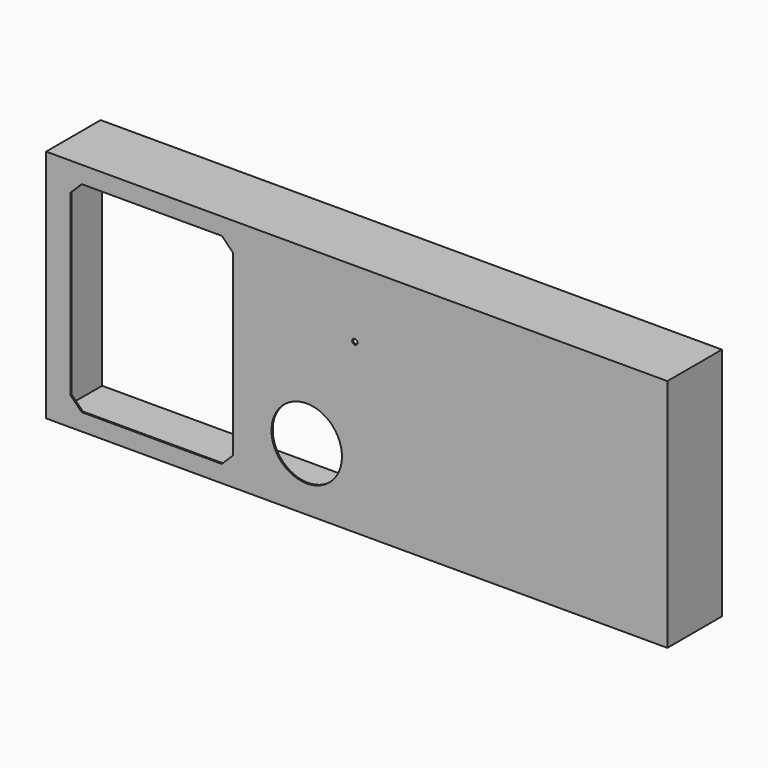
from build123d import *

# Parameters (mm, degrees)
F0_W     = 820
F0_H     = 310
F1_DEPTH = 2
F2_W     = 820
F2_H     = 310
F2_W_2   = 816
F2_H_2   = 306
F3_DEPTH = 88
F5_R     = 46.5
F5_R_2   = 3.5
F6_DEPTH = 90.001


with BuildPart() as f1:
    # F0 (on Front) → F1 (new body)
    with BuildSketch(Plane.XZ):
        with Locations((410, 155)):
            Rectangle(F0_W, F0_H)
    extrude(amount=F1_DEPTH)

    # F2 (on face) → F3 (join)
    with BuildSketch(Plane(origin=(0, 0, 0), x_dir=(-1, 0, 0), z_dir=(0, 1, 0))):
        with Locations((-410, 155)):
            Rectangle(F2_W, F2_H)
        with Locations((-410, 155)):
            Rectangle(F2_W_2, F2_H_2, mode=Mode.SUBTRACT)
    extrude(amount=F3_DEPTH)

    # F5 (on face) → F6 (cut, through all)
    with BuildSketch(Plane.XZ.offset(2)):
        Polygon((47.000004, 287.499992), (32.000004, 272.499992), (32.000004, 37.499992), (47.000004, 22.499992), (232.000004, 22.499992), (247.000004, 37.499992), (247.000004, 272.499992), (232.000004, 287.499992), align=None)
        with Locations((344.000004, 82.749992)):
            Circle(F5_R)
        with Locations((407.500004, 221.499992)):
            Circle(F5_R_2)
    extrude(amount=-F6_DEPTH, mode=Mode.SUBTRACT)


solid = f1.part
